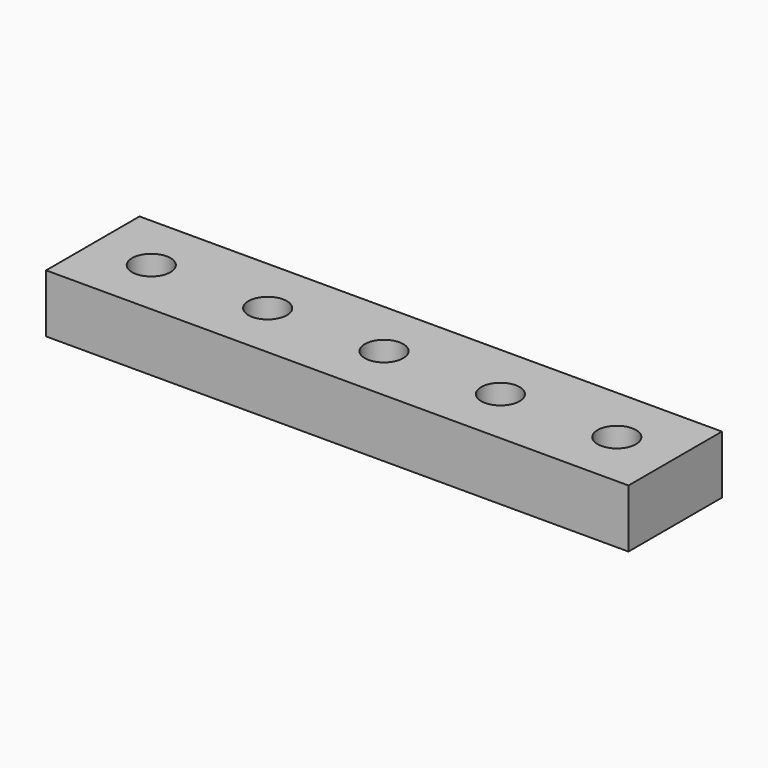
from build123d import *

# Parameters (mm, degrees)
SKETCH_R         = 1.65
EXTRUDE_DEPTH    = 5
SKETCH001_W      = 50.041317
SKETCH001_H      = 10.034617
EXTRUDE001_DEPTH = 5


with BuildPart() as extrude_body:
    # Sketch → Extrude (new body)
    with BuildSketch(Plane.XY):
        Circle(SKETCH_R)
        with Locations((-10, 0)):
            Circle(SKETCH_R)
        with Locations((-20, 0)):
            Circle(SKETCH_R)
        with Locations((10, 0)):
            Circle(SKETCH_R)
        with Locations((20, 0)):
            Circle(SKETCH_R)
    extrude(amount=EXTRUDE_DEPTH)


with BuildPart() as cut:
    # Sketch001 → Extrude001 (new body)
    with BuildSketch(Plane.XY):
        with Locations((-0.018242, 0.017349)):
            Rectangle(SKETCH001_W, SKETCH001_H)
    extrude(amount=EXTRUDE001_DEPTH)

    # Cut: cut Extrude body
    add(extrude_body.part, mode=Mode.SUBTRACT)


solid = cut.part
